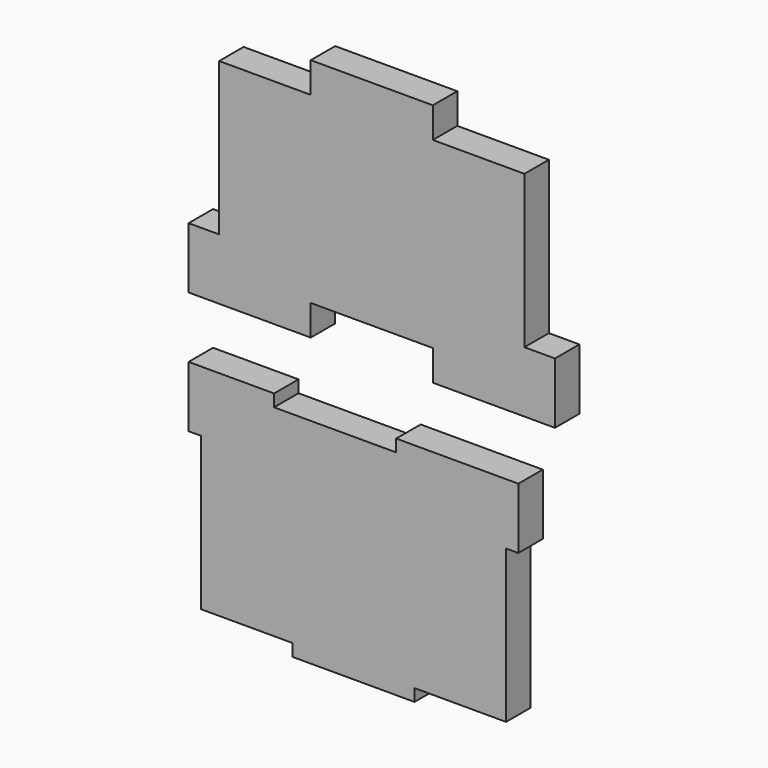
from build123d import *

# Parameters (mm, degrees)
F2_DEPTH = 5
F3_W     = 20
F3_H     = 2
F5_DEPTH = 5
F4_W     = 20
F4_H     = 5
F6_DEPTH = 5


with BuildPart() as f2:
    # F1 (on Front) + F0 (on Front) → F2 (new body)
    with BuildSketch(Plane.XZ):
        Polygon((0, 20), (0, 10), (60, 10), (60, 20), (55, 20), (55, 45), (40, 45), (40, 50), (20, 50), (20, 45), (5, 45), (5, 20), align=None)
    with BuildSketch(Plane.XZ):
        Polygon((54, 0), (0, 0), (0, -10), (2, -10), (2, -35), (17, -35), (17, -37), (37, -37), (37, -35), (52, -35), (52, -10), (54, -10), align=None)
    extrude(amount=F2_DEPTH)

    # F3 (on face) → F5 (cut)
    with BuildSketch(Plane.XZ.offset(5)):
        with Locations((24, -1)):
            Rectangle(F3_W, F3_H)
    extrude(amount=-F5_DEPTH, mode=Mode.SUBTRACT)

    # F4 (on face) → F6 (cut)
    with BuildSketch(Plane.XZ.offset(5)):
        with Locations((30, 12.5)):
            Rectangle(F4_W, F4_H)
    extrude(amount=-F6_DEPTH, mode=Mode.SUBTRACT)


solid = f2.part
